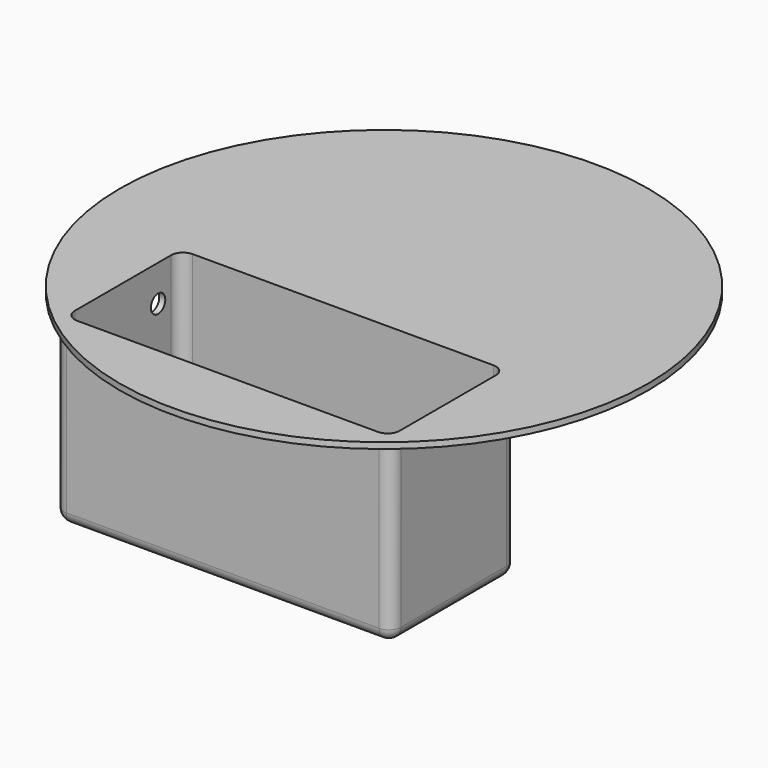
from build123d import *

# Parameters (mm, degrees)
F0_W     = 43.9
F0_H     = 1
F3_DEPTH = 30
F4_DEPTH = 29
F5_R     = 2
F6_R     = 1.5
F7_DEPTH = 4.7


with BuildPart() as f1:
    # F0 (on Front) → F1 (revolve)
    with BuildSketch(Plane.XZ):
        with Locations((-21.95, -19.7623790809)):
            Rectangle(F0_W, F0_H)
    revolve(axis=Axis((0, 0, -4.4118497148), (0, 0, -1)))

    # F2 (on face) → F3 (join)
    with BuildSketch(Plane.XY.offset(-19.2623790809)):
        with BuildLine():
            Line((-26, -33.5), (26, -33.5))
            ThreePointArc((26, -33.5), (27.4142135624, -32.9142135624), (28, -31.5))
            Line((28, -31.5), (28, -9.5))
            ThreePointArc((28, -9.5), (27.4142135624, -8.0857864376), (26, -7.5))
            Line((26, -7.5), (-26, -7.5))
            ThreePointArc((-26, -7.5), (-27.4142135624, -8.0857864376), (-28, -9.5))
            Line((-28, -9.5), (-28, -31.5))
            ThreePointArc((-28, -31.5), (-27.4142135624, -32.9142135624), (-26, -33.5))
        make_face()
        with BuildLine():
            Line((-24.9999995768, -8.5000004232), (24.9999995768, -8.5000004232))
            ThreePointArc((24.9999995768, -8.5000004232), (26.4142131392, -9.0857868608), (26.9999995768, -10.5000004232))
            Line((26.9999995768, -10.5000004232), (26.9999995768, -30.4999995768))
            ThreePointArc((26.9999995768, -30.4999995768), (26.4142131392, -31.9142131392), (24.9999995768, -32.4999995768))
            Line((24.9999995768, -32.4999995768), (-24.9999995768, -32.4999995768))
            ThreePointArc((-24.9999995768, -32.4999995768), (-26.4142131392, -31.9142131392), (-26.9999995768, -30.4999995768))
            Line((-26.9999995768, -30.4999995768), (-26.9999995768, -10.5000004232))
            ThreePointArc((-26.9999995768, -10.5000004232), (-26.4142131392, -9.0857868608), (-24.9999995768, -8.5000004232))
        make_face(mode=Mode.SUBTRACT)
        with BuildLine():
            ThreePointArc((26.9999995768, -10.5000004232), (26.4142131392, -9.0857868608), (24.9999995768, -8.5000004232))
            Line((24.9999995768, -8.5000004232), (-24.9999995768, -8.5000004232))
            ThreePointArc((-24.9999995768, -8.5000004232), (-26.4142131392, -9.0857868608), (-26.9999995768, -10.5000004232))
            Line((-26.9999995768, -10.5000004232), (-26.9999995768, -30.4999995768))
            ThreePointArc((-26.9999995768, -30.4999995768), (-26.4142131392, -31.9142131392), (-24.9999995768, -32.4999995768))
            Line((-24.9999995768, -32.4999995768), (24.9999995768, -32.4999995768))
            ThreePointArc((24.9999995768, -32.4999995768), (26.4142131392, -31.9142131392), (26.9999995768, -30.4999995768))
            Line((26.9999995768, -30.4999995768), (26.9999995768, -10.5000004232))
        make_face()
    extrude(amount=-F3_DEPTH)

    # F2 (on face) → F4 (cut)
    with BuildSketch(Plane.XY.offset(-19.2623790809)):
        with BuildLine():
            ThreePointArc((26.9999995768, -10.5000004232), (26.4142131392, -9.0857868608), (24.9999995768, -8.5000004232))
            Line((24.9999995768, -8.5000004232), (-24.9999995768, -8.5000004232))
            ThreePointArc((-24.9999995768, -8.5000004232), (-26.4142131392, -9.0857868608), (-26.9999995768, -10.5000004232))
            Line((-26.9999995768, -10.5000004232), (-26.9999995768, -30.4999995768))
            ThreePointArc((-26.9999995768, -30.4999995768), (-26.4142131392, -31.9142131392), (-24.9999995768, -32.4999995768))
            Line((-24.9999995768, -32.4999995768), (24.9999995768, -32.4999995768))
            ThreePointArc((24.9999995768, -32.4999995768), (26.4142131392, -31.9142131392), (26.9999995768, -30.4999995768))
            Line((26.9999995768, -30.4999995768), (26.9999995768, -10.5000004232))
        make_face()
    extrude(amount=-F4_DEPTH, mode=Mode.SUBTRACT)

    # F5
    f5_edges = [f1.edges().sort_by_distance(p)[0] for p in [
        (0, -33.5, -49.262379),
        (27.414214, -32.914214, -49.262379),
        (28, -20.5, -49.262379),
        (27.414214, -8.085786, -49.262379),
        (0, -7.5, -49.262379),
        (-27.414214, -8.085786, -49.262379),
        (-28, -20.5, -49.262379),
        (-27.414214, -32.914214, -49.262379),
        (26.414213, -9.085787, -48.262379),
        (0, -8.5, -48.262379),
        (-26.414213, -9.085787, -48.262379),
        (-27, -20.5, -48.262379),
        (-26.414213, -31.914213, -48.262379),
        (0, -32.5, -48.262379),
        (26.414213, -31.914213, -48.262379),
        (27, -20.5, -48.262379),
    ]]
    fillet(f5_edges, radius=F5_R)

    # F6 (on face) → F7 (cut)
    with BuildSketch(Plane(origin=(-28, 0, 0), x_dir=(0, -1, 0), z_dir=(-1, 0, 0))):
        with Locations((13.193259947, -25.2623790809)):
            Circle(F6_R)
    extrude(amount=-F7_DEPTH, mode=Mode.SUBTRACT)


solid = f1.part
